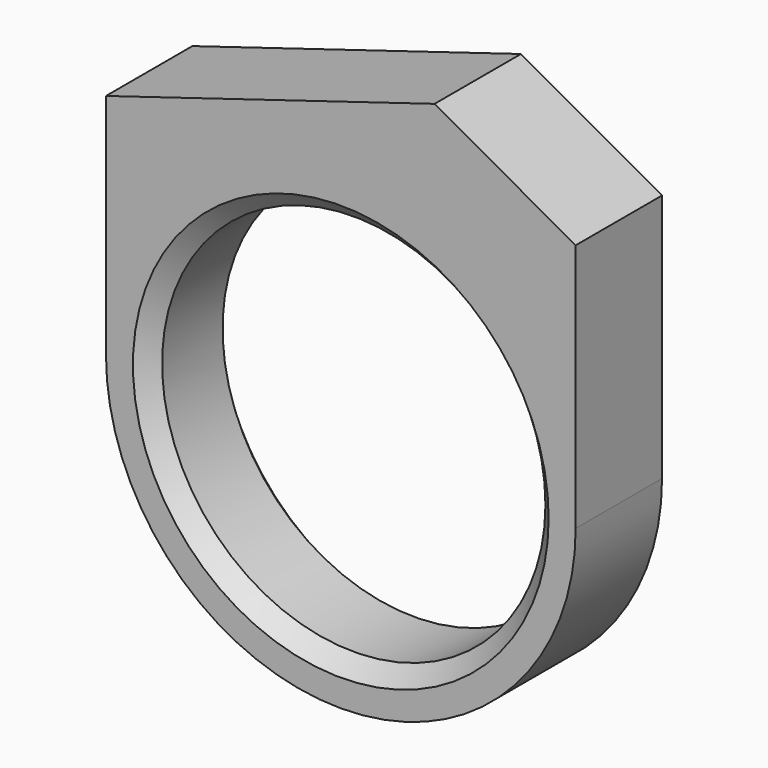
from build123d import *

# Parameters (mm, degrees)
F0_R          = 8.875
F1_DEPTH      = 2.5
F1_DEPTH_BACK = 2.5
F2_SIZE       = 0.75


with BuildPart() as f1:
    # F0 (on Front) → F1 (new body, two sides)
    with BuildSketch(Plane.XZ) as f1_sk:
        with BuildLine():
            ThreePointArc((-10.875, 0), (0, -10.875), (10.875, 0))
            ThreePointArc((10.875, 0), (0, 10.875), (-10.875, 0))
        make_face()
        Circle(F0_R, mode=Mode.SUBTRACT)
        with BuildLine():
            ThreePointArc((-10.875, 0), (0, 10.875), (10.875, 0))
            Line((10.875, 0), (10.875, 11.53772))
            Line((10.875, 11.53772), (4.341673, 15.179774))
            Line((4.341673, 15.179774), (-10.875, 10.553382))
            Line((-10.875, 10.553382), (-10.875, 0))
        make_face()
    extrude(amount=F1_DEPTH)
    extrude(f1_sk.sketch, amount=-F1_DEPTH_BACK)

    # F2
    f2_edges = [f1.edges().sort_by_distance(p)[0] for p in [
        (-8.875, -2.5, 0),
        (-8.875, 2.5, 0),
    ]]
    chamfer(f2_edges, length=F2_SIZE)


solid = f1.part
